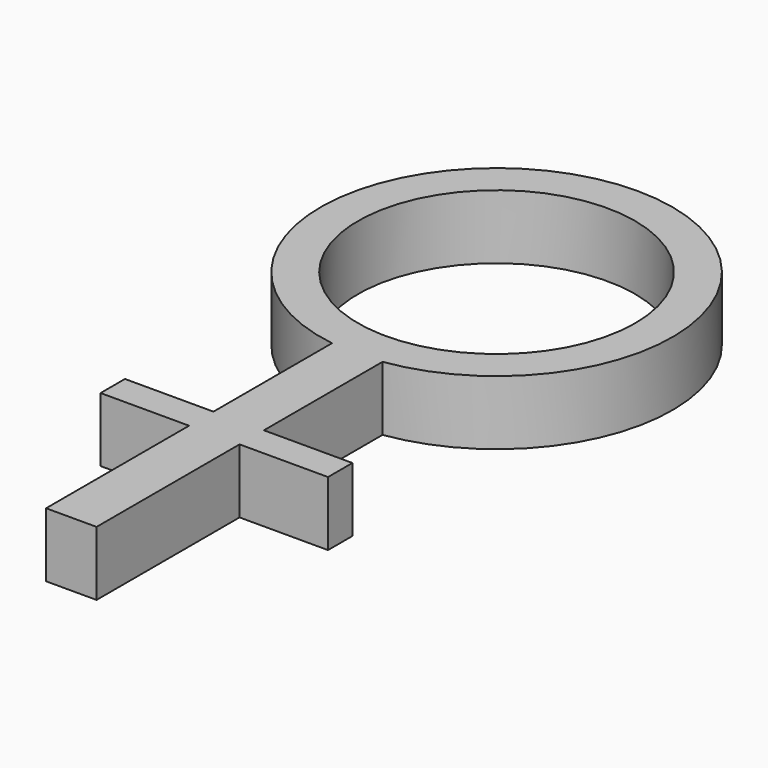
from build123d import *

# Parameters (mm, degrees)
F0_R     = 2.154064
F1_DEPTH = 1


with BuildPart() as f1:
    # F0 (on Top) → F1 (new body)
    with BuildSketch(Plane.XY):
        with BuildLine():
            Line((0.392428, -5.011959), (0.392428, -2.707368))
            ThreePointArc((0.392428, -2.707368), (0, 2.735661), (-0.392428, -2.707368))
            Line((-0.392428, -2.707368), (-0.392428, -5.011959))
            Line((-0.392428, -5.011959), (-1.768064, -5.011959))
            Line((-1.768064, -5.011959), (-1.768064, -5.485853))
            Line((-1.768064, -5.485853), (-0.392428, -5.485853))
            Line((-0.392428, -5.485853), (-0.392428, -8.264339))
            Line((-0.392428, -8.264339), (0.392428, -8.264339))
            Line((0.392428, -8.264339), (0.392428, -5.485853))
            Line((0.392428, -5.485853), (1.768064, -5.485853))
            Line((1.768064, -5.485853), (1.768064, -5.011959))
            Line((1.768064, -5.011959), (0.392428, -5.011959))
        make_face()
        Circle(F0_R, mode=Mode.SUBTRACT)
    extrude(amount=F1_DEPTH)


solid = f1.part
